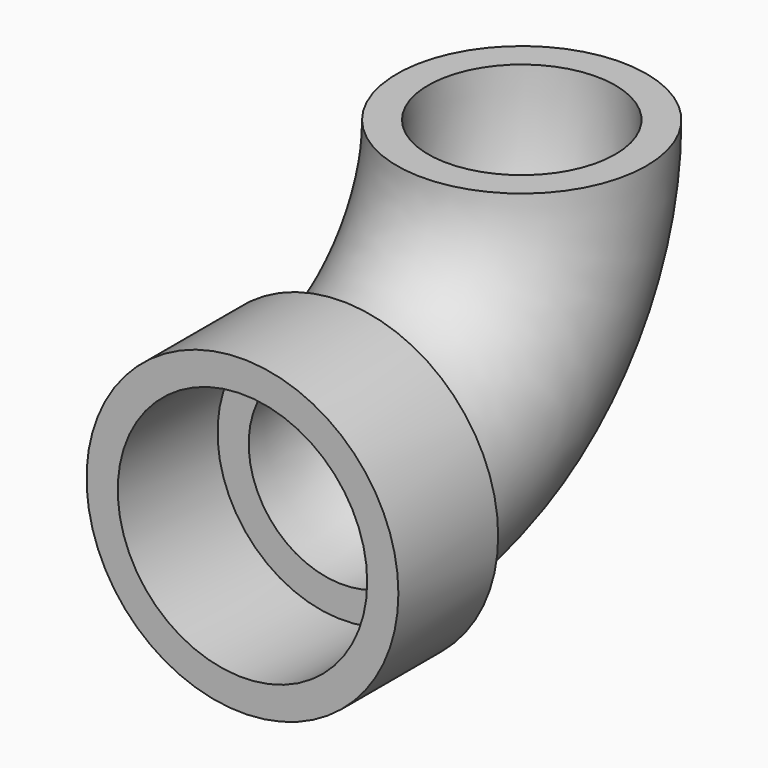
from build123d import *

# Parameters (mm, degrees)
F0_R     = 10
F0_R_2   = 7.5
F1_ANGLE = 90
F2_R     = 12.5
F2_R_2   = 10
F3_DEPTH = 10


with BuildPart() as f1:
    # F0 (on Front) → F1 (revolve)
    with BuildSketch(Plane.XZ):
        Circle(F0_R)
        Circle(F0_R_2, mode=Mode.SUBTRACT)
    revolve(axis=Axis((7.680556, 0, 17.986111), (1, 0, 0)), revolution_arc=F1_ANGLE)

    # F2 (on face) → F3 (join)
    with BuildSketch(Plane.XZ):
        Circle(F2_R)
        Circle(F2_R_2, mode=Mode.SUBTRACT)
    extrude(amount=F3_DEPTH)


solid = f1.part
